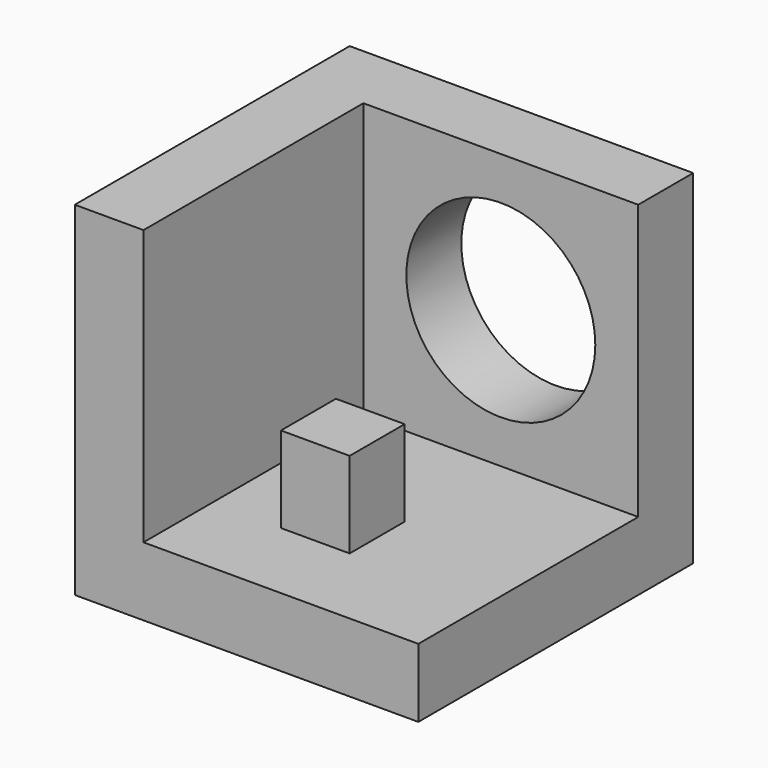
from build123d import *

# Parameters (mm, degrees)
F0_W     = 254
F0_H     = 254
F1_DEPTH = 254
F4_T     = -50.8
F5_R     = 69.85
F6_DEPTH = 254.001
F7_W     = 50.8
F7_H     = 50.8
F8_DEPTH = 114.3


with BuildPart() as f1:
    # F0 (on Top) → F1 (new body)
    with BuildSketch(Plane.XY):
        with Locations((127, -127)):
            Rectangle(F0_W, F0_H)
    extrude(amount=F1_DEPTH)

    # F4
    f4_openings = [f1.faces().sort_by_distance(p)[0] for p in [
        (127, -254, 127),
        (254, -127, 127),
        (127, -127, 254),
    ]]
    offset(amount=F4_T, openings=f4_openings)

    # F5 (on Front) → F6 (cut, through all)
    with BuildSketch(Plane.XZ):
        with Locations((152.4, 152.4)):
            Circle(F5_R)
    extrude(amount=F6_DEPTH, mode=Mode.SUBTRACT)

    # F7 (on Top) → F8 (join)
    with BuildSketch(Plane.XY):
        with Locations((127, -165.1)):
            Rectangle(F7_W, F7_H)
    extrude(amount=F8_DEPTH)


solid = f1.part
